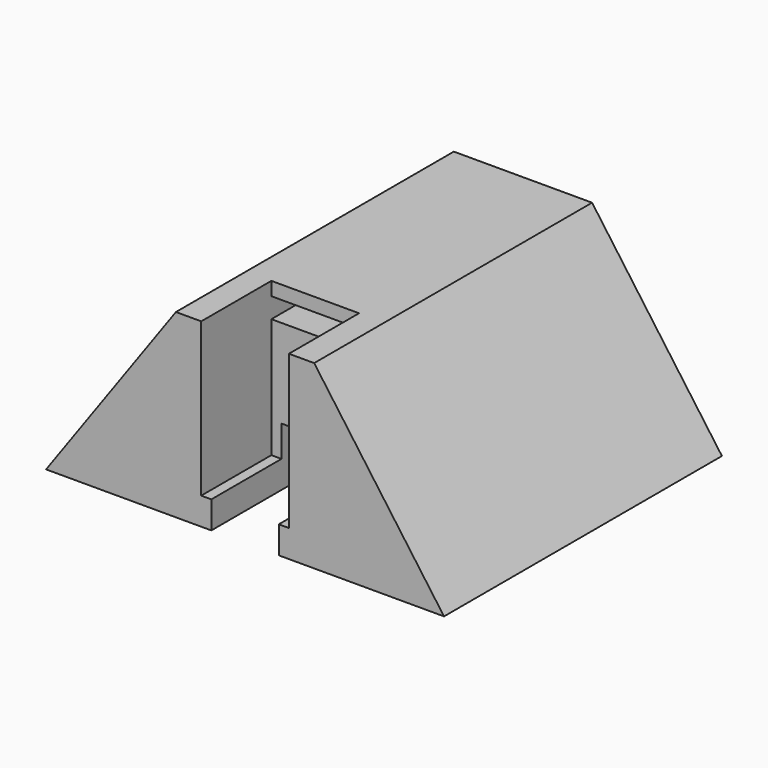
from build123d import *

# Parameters (mm, degrees)
F1_DEPTH = 51.5
F2_W     = 13
F2_H     = 22.75
F3_DEPTH = 13
F4_W     = 13
F4_H     = 3
F5_DEPTH = 5


with BuildPart() as f1:
    # F0 (on Front) → F1 (new body)
    with BuildSketch(Plane.XZ):
        Polygon((-10.25, 26.803684), (-29.5, 0), (-5, 0), (-5, 8.67), (5, 8.67), (5, 0), (29.5, 0), (10.25, 26.803684), align=None)
    extrude(amount=F1_DEPTH)

    # F2 (on face) → F3 (cut)
    with BuildSketch(Plane.XZ.offset(51.5)):
        with Locations((0, 15.428684)):
            Rectangle(F2_W, F2_H)
    extrude(amount=-F3_DEPTH, mode=Mode.SUBTRACT)

    # F4 (on face) → F5 (cut)
    with BuildSketch(Plane.XZ.offset(38.5)):
        with Locations((0, 23.303684)):
            Rectangle(F4_W, F4_H)
    extrude(amount=-F5_DEPTH, mode=Mode.SUBTRACT)


solid = f1.part
